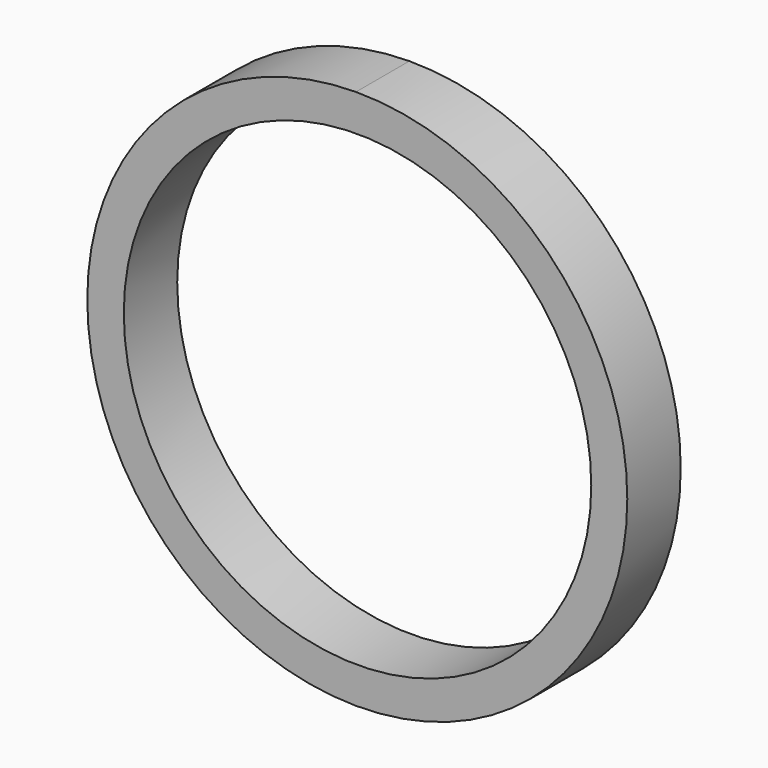
from build123d import *

# Parameters (mm, degrees)
F1_DEPTH = 12.7
F2_R     = 44.45
F3_DEPTH = 25.4


with BuildPart() as f1:
    # F0 (on Front) → F1 (new body)
    with BuildSketch(Plane.XZ):
        with BuildLine():
            ThreePointArc((6.603627, 44.493366), (-44.485678, -6.895171), (6.603627, -58.283709))
            ThreePointArc((6.603627, -58.283709), (58.203498, -6.895171), (6.603627, 44.493366))
        make_face()
    extrude(amount=F1_DEPTH)

    # F2 (on face) → F3 (cut)
    with BuildSketch(Plane.XZ.offset(12.7)):
        with Locations((6.903736, -6.895171)):
            Circle(F2_R)
    extrude(amount=-F3_DEPTH, mode=Mode.SUBTRACT)


solid = f1.part
